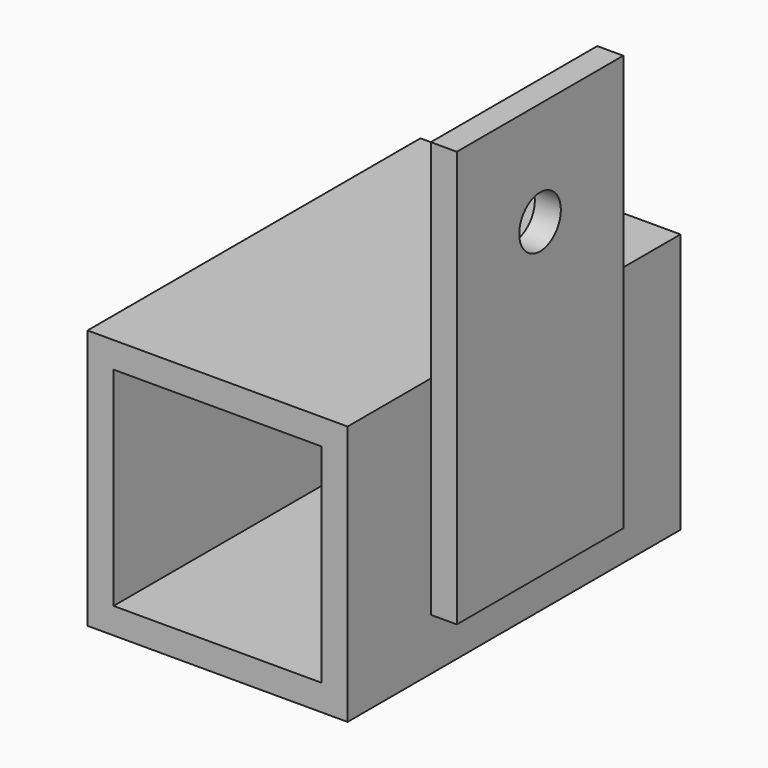
from build123d import *

# Parameters (mm, degrees)
F0_W     = 63.5
F0_H     = 63.5
F0_W_2   = 50.8
F0_H_2   = 50.8
F1_DEPTH = 101.6
F2_W     = 50.8
F2_H     = 101.6
F2_R     = 6.35
F3_DEPTH = 6.35


with BuildPart() as f1:
    # F0 (on Front) → F1 (new body)
    with BuildSketch(Plane.XZ):
        with Locations((25.4, 25.4)):
            Rectangle(F0_W, F0_H)
        with Locations((25.4, 25.4)):
            Rectangle(F0_W_2, F0_H_2, mode=Mode.SUBTRACT)
    extrude(amount=F1_DEPTH)

    # F2 (on face) → F3 (join)
    with BuildSketch(Plane.YZ.offset(57.15)):
        with Locations((-50.8, 57.15)):
            Rectangle(F2_W, F2_H)
        with Locations((-50.8, 82.55)):
            Circle(F2_R, mode=Mode.SUBTRACT)
    extrude(amount=F3_DEPTH)


solid = f1.part
